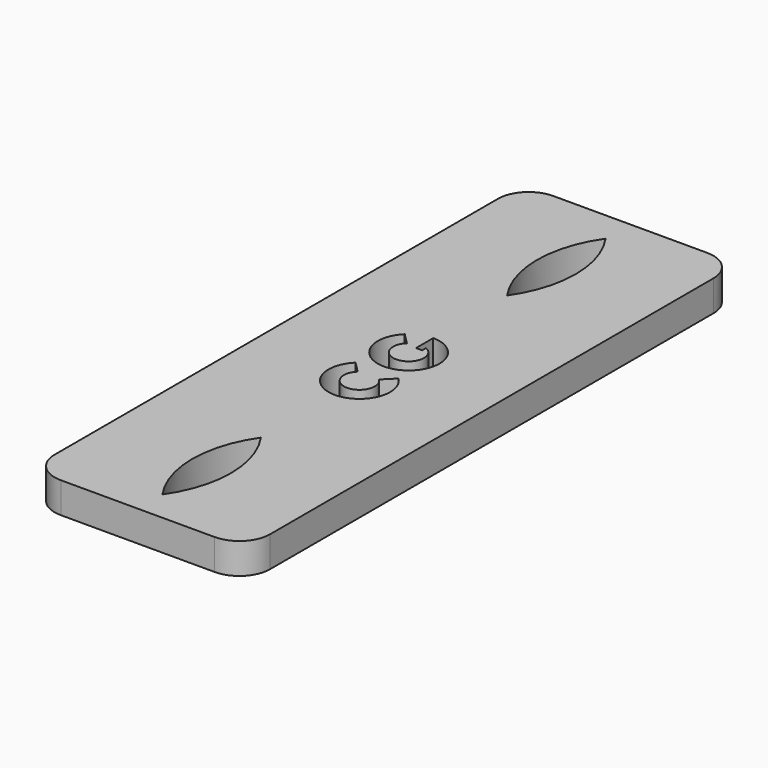
from build123d import *

# Parameters (mm, degrees)
F0_W     = 70
F0_H     = 200
F1_DEPTH = 10
F3_DEPTH = 25
F4_DEPTH = 25
F5_R     = 10
F6_R     = 10


with BuildPart() as f1:
    # F0 (on Top) → F1 (new body)
    with BuildSketch(Plane.XY):
        with Locations((13.355264, 39.517543)):
            Rectangle(F0_W, F0_H)
    extrude(amount=F1_DEPTH)

    # F2 (on face) → F3 (cut)
    with BuildSketch(Plane.XY.offset(10)):
        with BuildLine():
            ThreePointArc((13.355264, 129.517543), (7.078077, 109.517543), (13.355264, 89.517543))
            ThreePointArc((13.355264, 89.517543), (19.63245, 109.517543), (13.355264, 129.517543))
        make_face()
        with BuildLine():
            ThreePointArc((13.355264, -10.482457), (7.078077, -30.482457), (13.355264, -50.482457))
            ThreePointArc((13.355264, -50.482457), (19.63245, -30.482457), (13.355264, -10.482457))
        make_face()
        with BuildLine():
            Line((9.913476, 33.144401), (6.369316, 36.672719))
            ThreePointArc((6.369316, 36.672719), (13.355264, 19.517543), (20.341211, 36.672719))
            Line((20.341211, 36.672719), (16.797051, 33.144401))
            ThreePointArc((16.797051, 33.144401), (13.355264, 24.517543), (9.913476, 33.144401))
        make_face()
        with BuildLine():
            Line((9.913476, 53.144401), (6.369316, 56.672719))
            ThreePointArc((6.369316, 56.672719), (4.093737, 45.746055), (13.355264, 39.517543))
            ThreePointArc((13.355264, 39.517543), (23.355264, 49.517543), (13.355264, 59.517543))
            Line((13.355264, 59.517543), (13.355264, 54.517543))
            Line((13.355264, 54.517543), (13.355264, 52.517543))
            Line((13.355264, 52.517543), (15.355264, 52.517543))
            Line((15.355264, 52.517543), (15.355264, 54.100118))
            ThreePointArc((15.355264, 54.100118), (14.220155, 44.592915), (9.913476, 53.144401))
        make_face()
    extrude(amount=-F3_DEPTH, mode=Mode.SUBTRACT)

    # F2 (on face) → F4 (cut)
    with BuildSketch(Plane.XY.offset(10)):
        with BuildLine():
            ThreePointArc((13.355264, 129.517543), (7.078077, 109.517543), (13.355264, 89.517543))
            ThreePointArc((13.355264, 89.517543), (19.63245, 109.517543), (13.355264, 129.517543))
        make_face()
        with BuildLine():
            ThreePointArc((13.355264, -10.482457), (7.078077, -30.482457), (13.355264, -50.482457))
            ThreePointArc((13.355264, -50.482457), (19.63245, -30.482457), (13.355264, -10.482457))
        make_face()
        with BuildLine():
            Line((9.913476, 33.144401), (6.369316, 36.672719))
            ThreePointArc((6.369316, 36.672719), (13.355264, 19.517543), (20.341211, 36.672719))
            Line((20.341211, 36.672719), (16.797051, 33.144401))
            ThreePointArc((16.797051, 33.144401), (13.355264, 24.517543), (9.913476, 33.144401))
        make_face()
        with BuildLine():
            Line((9.913476, 53.144401), (6.369316, 56.672719))
            ThreePointArc((6.369316, 56.672719), (4.093737, 45.746055), (13.355264, 39.517543))
            ThreePointArc((13.355264, 39.517543), (23.355264, 49.517543), (13.355264, 59.517543))
            Line((13.355264, 59.517543), (13.355264, 54.517543))
            Line((13.355264, 54.517543), (13.355264, 52.517543))
            Line((13.355264, 52.517543), (15.355264, 52.517543))
            Line((15.355264, 52.517543), (15.355264, 54.100118))
            ThreePointArc((15.355264, 54.100118), (14.220155, 44.592915), (9.913476, 53.144401))
        make_face()
    extrude(amount=-F4_DEPTH, mode=Mode.SUBTRACT)

    # F5
    f5_edges = [f1.edges().sort_by_distance(p)[0] for p in [
        (48.355264, -60.482457, 5),
    ]]
    fillet(f5_edges, radius=F5_R)

    # F6
    f6_edges = [f1.edges().sort_by_distance(p)[0] for p in [
        (-21.644736, -60.482457, 5),
        (-21.644736, 139.517543, 5),
        (48.355264, 139.517543, 5),
    ]]
    fillet(f6_edges, radius=F6_R)


solid = f1.part
